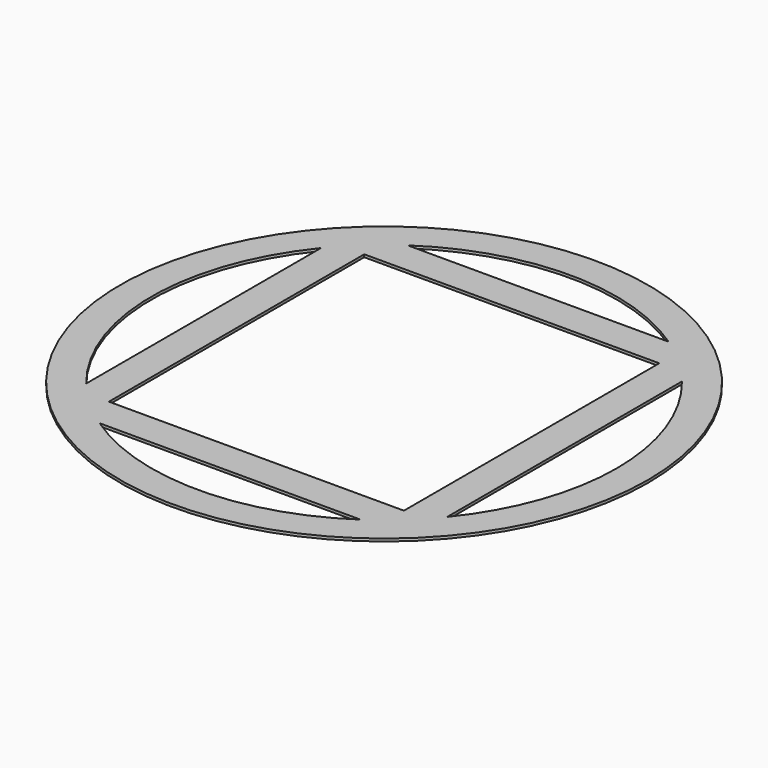
from build123d import *

# Parameters (mm, degrees)
F0_R     = 40
F1_DEPTH = 0.4
F2_W     = 44.7093093119
F2_H     = 48.3685829416
F3_DEPTH = 25


with BuildPart() as f1:
    # F0 (on Top) → F1 (new body)
    with BuildSketch(Plane.XY):
        Circle(F0_R)
    extrude(amount=F1_DEPTH)

    # F2 (on face) → F3 (cut)
    with BuildSketch(Plane.XY.offset(0.4)):
        Rectangle(F2_W, F2_H)
        with BuildLine():
            Line((-27.354654656, -22.2321893938), (-27.354654656, 22.2321893938))
            ThreePointArc((-27.354654656, 22.2321893938), (-35.2497854829, 0), (-27.354654656, -22.2321893938))
        make_face()
        with BuildLine():
            ThreePointArc((19.7692819277, 29.1842914708), (0, 35.2497854829), (-19.7692819277, 29.1842914708))
            Line((-19.7692819277, 29.1842914708), (19.7692819277, 29.1842914708))
        make_face()
        with BuildLine():
            ThreePointArc((35.2497854829, 0), (33.2174132434, 11.7962211748), (27.354654656, 22.2321893938))
            Line((27.354654656, 22.2321893938), (27.354654656, -22.2321893938))
            ThreePointArc((27.354654656, -22.2321893938), (33.2174132434, -11.7962211748), (35.2497854829, 0))
        make_face()
        with BuildLine():
            Line((19.7692819277, -29.1842914708), (-19.7692819277, -29.1842914708))
            ThreePointArc((-19.7692819277, -29.1842914708), (0, -35.2497854829), (19.7692819277, -29.1842914708))
        make_face()
    extrude(amount=-F3_DEPTH, mode=Mode.SUBTRACT)


solid = f1.part
